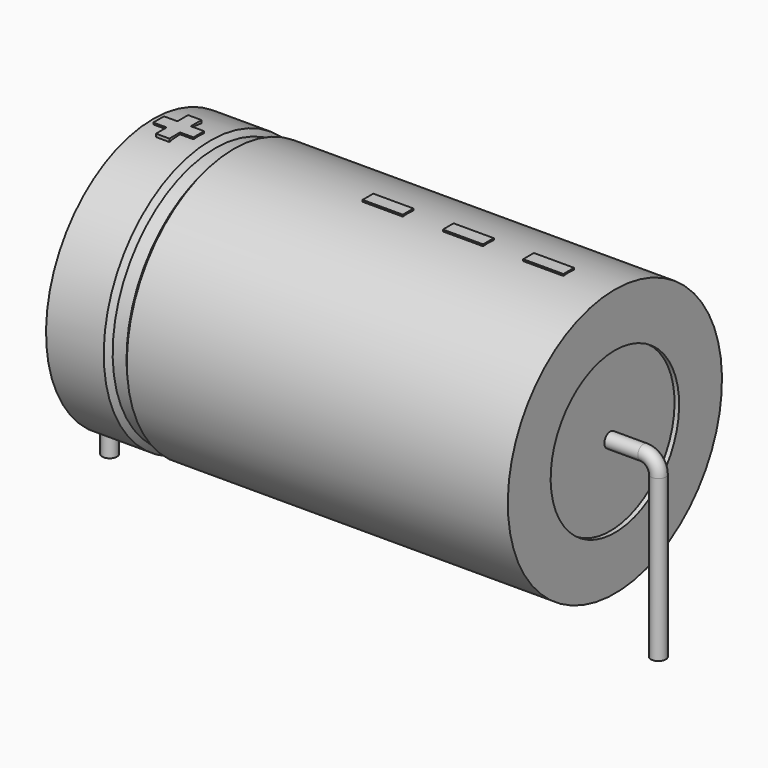
from build123d import *

# Parameters (mm, degrees)
SKETCH_R    = 0.55
SKETCH004_W = 3
SKETCH004_H = 1
PAD_DEPTH   = 10.1


with BuildPart() as sweep_body:
    # Sweep: sweep along a path in Sketch001
    with BuildLine(Plane.XZ) as sweep_path:
        Line((0, -3), (0, 9))
        ThreePointArc((0, 9), (0.32218, 9.777815), (1.099992, 10.1))
        Line((1.099992, 10.1), (39.9, 10.1))
        ThreePointArc((39.9, 10.1), (40.677817, 9.777817), (41, 9))
        Line((41, 9), (41, -3))
    # Sketch → Sweep (sweep)
    with BuildSketch(Plane.XY.offset(-2)):
        Circle(SKETCH_R)
    sweep(path=sweep_path.line)


with BuildPart() as revolution:
    # Sketch002 → Revolution (revolve)
    with BuildSketch(Plane.XZ):
        Polygon((3.25, 20.1), (3.25, 16.1), (37.75, 16.1), (37.75, 20.1), (9.2875, 20.1), (8.9425, 19.7), (7.9075, 19.7), (7.5625, 20.1), align=None)
    revolve(axis=Axis((6.97588, 0, 10.1), (1, 0, 0)))


with BuildPart() as revolution001:
    # Sketch003 → Revolution001 (revolve)
    with BuildSketch(Plane.XZ):
        Polygon((3.595, 19.7), (5.32, 19.7), (5.32, 11.1), (35.68, 11.1), (35.68, 19.7), (37.405, 19.7), (37.405, 10.1), (3.595, 10.1), align=None)
    revolve(axis=Axis((6.97588, 0, 10.1), (1, 0, 0)))


with BuildPart() as pad:
    # Sketch004 → Pad (new body)
    with BuildSketch(Plane.XY.offset(10.1)):
        with Locations((32.8, 0)):
            Rectangle(SKETCH004_W, SKETCH004_H)
        with Locations((26.8, 0)):
            Rectangle(SKETCH004_W, SKETCH004_H)
        with Locations((20.8, 0)):
            Rectangle(SKETCH004_W, SKETCH004_H)
        Polygon((4.664, 0.5), (3.664, 0.5), (3.664, -0.5), (4.664, -0.5), (4.664, -1.5), (5.664, -1.5), (5.664, -0.5), (6.664, -0.5), (6.664, 0.5), (5.664, 0.5), (5.664, 1.5), (4.664, 1.5), align=None)
    extrude(amount=PAD_DEPTH)


solid = Compound([sweep_body.part, revolution.part, revolution001.part, pad.part])
